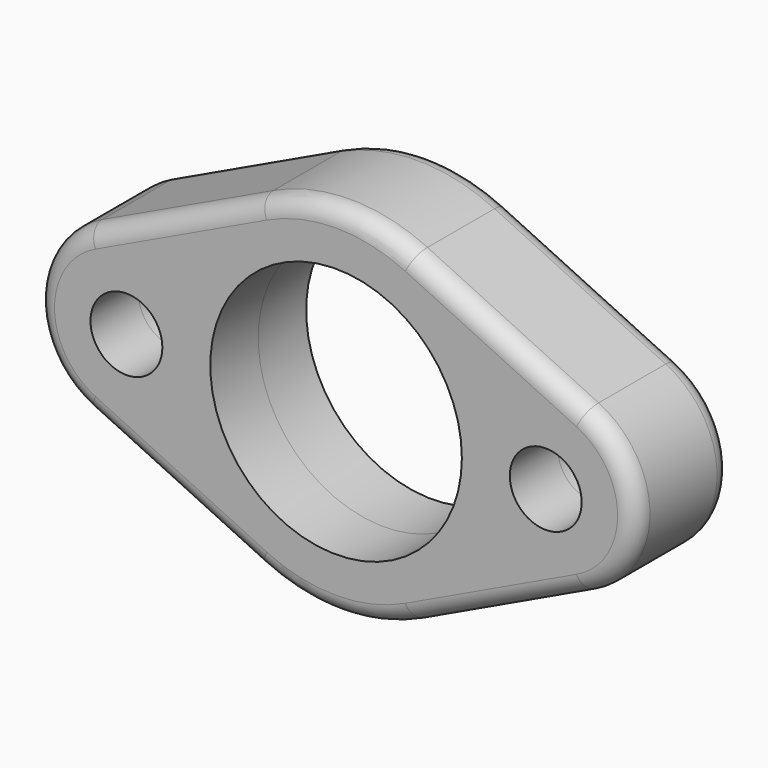
from build123d import *

# Parameters (mm, degrees)
F0_R          = 6
F0_R_2        = 21
F1_DEPTH      = 10
F1_DEPTH_BACK = 10
F2_R          = 3


with BuildPart() as f1:
    # F0 (on Front) → F1 (new body, two sides)
    with BuildSketch(Plane.XZ) as f1_sk:
        with BuildLine():
            Line((-41.428571, -13.552619), (-12.857143, -27.105237))
            ThreePointArc((-12.857143, -27.105237), (0, -30), (12.857143, -27.105237))
            Line((12.857143, -27.105237), (41.428571, -13.552619))
            ThreePointArc((41.428571, -13.552619), (50, 0), (41.428571, 13.552619))
            Line((41.428571, 13.552619), (12.857143, 27.105237))
            ThreePointArc((12.857143, 27.105237), (0, 30), (-12.857143, 27.105237))
            Line((-12.857143, 27.105237), (-41.428571, 13.552619))
            ThreePointArc((-41.428571, 13.552619), (-50, 0), (-41.428571, -13.552619))
        make_face()
        with Locations((-35, 0)):
            Circle(F0_R, mode=Mode.SUBTRACT)
        Circle(F0_R_2, mode=Mode.SUBTRACT)
        with Locations((35, 0)):
            Circle(F0_R, mode=Mode.SUBTRACT)
    extrude(amount=F1_DEPTH)
    extrude(f1_sk.sketch, amount=-F1_DEPTH_BACK)

    # F2
    f2_edges = [f1.edges().sort_by_distance(p)[0] for p in [
        (-27.142857, -10, 20.328928),
        (0, 10, 30),
    ]]
    fillet(f2_edges, radius=F2_R)


solid = f1.part
